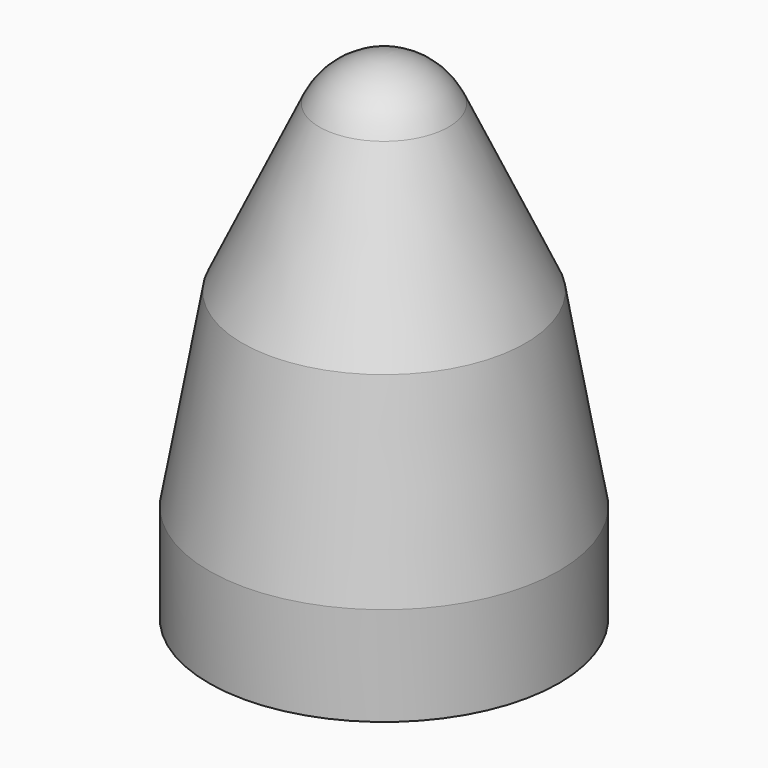
from build123d import *

# Parameters (mm, degrees)
F3_ANGLE = 90


with BuildPart() as f1:
    # F0 (on Top) → F1 (revolve)
    with BuildSketch(Plane.XY):
        with BuildLine():
            Line((0, 8.9), (0, 7.9))
            Line((0, 7.9), (2.4, 7.9))
            Line((2.4, 7.9), (2.4, 6.8))
            Line((2.4, 6.8), (5.4, 6.8))
            Line((5.4, 6.8), (5.4, 7.7508590184))
            Line((5.4, 7.7508590184), (14.092461206, 6.2356893905))
            Line((14.092461206, 6.2356893905), (21.86847149, 2.6096762451))
            Line((21.86847149, 2.6096762451), (24.1485125287, 0))
            Line((24.1485125287, 0), (25.1485125287, 0))
            ThreePointArc((25.1485125287, 0), (24.5807771156, 1.9478119615), (23.0553953206, 3.2855358927))
            Line((23.0553953206, 3.2855358927), (14.6574713698, 7.2015521436))
            Line((14.6574713698, 7.2015521436), (5.0250949202, 8.9))
            Line((5.0250949202, 8.9), (0, 8.9))
        make_face()
    revolve(axis=Axis((12.5827532146, 0, 0), (1, 0, 0)))


with BuildPart() as f1_1:
    # F3: moved
    add(f1.part.rotate(Axis((0, 0, 0), (0, -1, 0)), F3_ANGLE))


solid = f1_1.part
